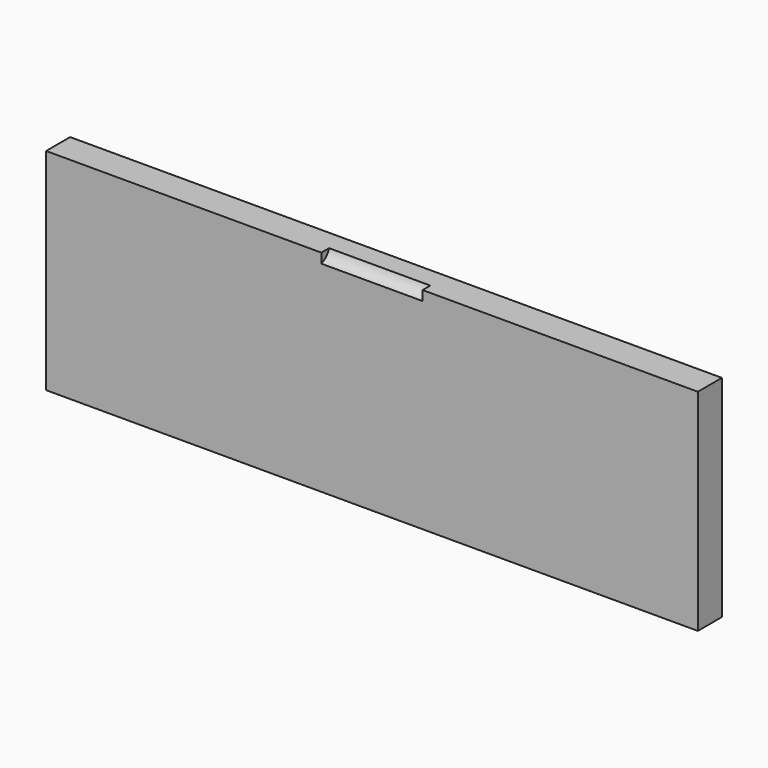
from build123d import *

# Parameters (mm, degrees)
HINGE_CUT_R           = 3.1
HINGE_CUT_DEPTH       = 20.2
SIDE_HINGE_MAIN_W     = 130
SIDE_HINGE_MAIN_H     = 6
SIDE_HINGE_MAIN_DEPTH = 42


with BuildPart() as hinge_cut:
    # hinge_cut → hinge_cut (new body)
    with BuildSketch(Plane(origin=(54.9, -1, 43), x_dir=(0, 0, -1), z_dir=(1, 0, 0))):
        Circle(HINGE_CUT_R)
    extrude(amount=HINGE_CUT_DEPTH)


with BuildPart() as side_main_cut:
    # side_hinge_main → side_hinge_main (new body)
    with BuildSketch(Plane.XY):
        with Locations((65, 3)):
            Rectangle(SIDE_HINGE_MAIN_W, SIDE_HINGE_MAIN_H)
    extrude(amount=SIDE_HINGE_MAIN_DEPTH)

    # side_main_cut: cut hinge_cut
    add(hinge_cut.part, mode=Mode.SUBTRACT)


solid = side_main_cut.part
